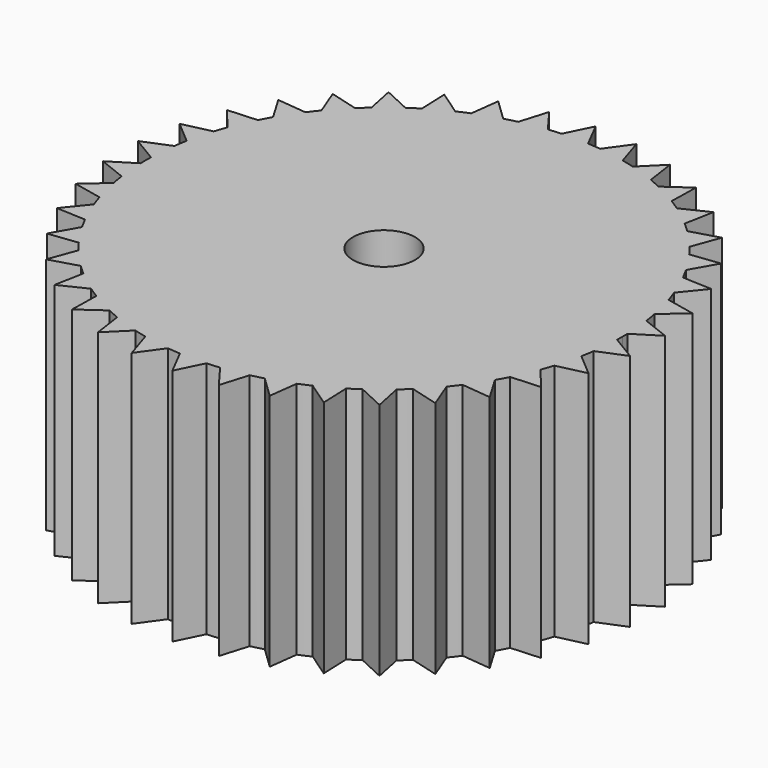
from build123d import *

# Parameters (mm, degrees)
F0_R     = 3.302
F1_DEPTH = 25.4


with BuildPart() as f1:
    # F0 (on Top) → F1 (new body)
    with BuildSketch(Plane.XY):
        with BuildLine():
            Line((-25.79245, -11.313618), (-22.671766, -11.452119))
            ThreePointArc((-22.671766, -11.452119), (-22.974694, -10.831594), (-23.260642, -10.203064))
            Line((-23.260642, -10.203064), (-25.79245, -11.313618))
        make_face()
        with BuildLine():
            ThreePointArc((-23.260642, 10.203064), (-22.961328, 10.8599), (-22.643469, 11.507966))
            Line((-22.643469, 11.507966), (-25.79245, 11.313618))
            Line((-25.79245, 11.313618), (-23.260642, 10.203064))
        make_face()
        with BuildLine():
            Line((-27.302835, -6.914017), (-24.247509, -7.564277))
            ThreePointArc((-24.247509, -7.564277), (-24.444171, -6.902355), (-24.622767, -6.235331))
            Line((-24.622767, -6.235331), (-27.302835, -6.914017))
        make_face()
        with BuildLine():
            ThreePointArc((-13.285224, 21.648622), (-12.691834, 22.001758), (-12.089064, 22.338633))
            Line((-12.089064, 22.338633), (-13.404899, 24.770085))
            Line((-13.404899, 24.770085), (-13.285224, 21.648622))
        make_face()
        with BuildLine():
            Line((27.302835, -6.914017), (24.925246, -4.887956))
            ThreePointArc((24.925246, -4.887956), (24.783165, -5.563699), (24.622767, -6.235331))
            Line((24.622767, -6.235331), (27.302835, -6.914017))
        make_face()
        with BuildLine():
            Line((9.145052, -26.638627), (8.247367, -24.023758))
            ThreePointArc((8.247367, -24.023758), (7.561396, -24.248408), (6.869319, -24.453475))
            Line((6.869319, -24.453475), (9.145052, -26.638627))
        make_face()
        with BuildLine():
            Line((-23.578514, -15.404612), (-21.264029, -13.892483))
            ThreePointArc((-21.264029, -13.892483), (-21.6502, -13.282651), (-22.018888, -12.662093))
            Line((-22.018888, -12.662093), (-23.578514, -15.404612))
        make_face()
        with BuildLine():
            ThreePointArc((-18.687387, 17.202952), (-18.191016, 17.727012), (-17.679953, 18.236756))
            Line((-17.679953, 18.236756), (-20.721418, 19.075409))
            Line((-20.721418, 19.075409), (-18.687387, 17.202952))
        make_face()
        with BuildLine():
            Line((4.635752, -27.780537), (4.180703, -25.053577))
            ThreePointArc((4.180703, -25.053577), (3.467111, -25.162256), (2.75072, -25.250615))
            Line((2.75072, -25.250615), (4.635752, -27.780537))
        make_face()
        with BuildLine():
            Line((-25.79245, -11.313618), (-23.260642, -10.203064))
            ThreePointArc((-23.260642, -10.203064), (-23.541172, -9.537987), (-23.802691, -8.865208))
            Line((-23.802691, -8.865208), (-25.79245, -11.313618))
        make_face()
        with BuildLine():
            ThreePointArc((-15.601003, 20.044169), (-15.025144, 20.479381), (-14.43715, 20.898055))
            Line((-14.43715, 20.898055), (-17.299096, 22.225879))
            Line((-17.299096, 22.225879), (-15.601003, 20.044169))
        make_face()
        with BuildLine():
            Line((9.145052, -26.638627), (9.540785, -23.540039))
            ThreePointArc((9.540785, -23.540039), (8.897364, -23.79069), (8.247367, -24.023758))
            Line((8.247367, -24.023758), (9.145052, -26.638627))
        make_face()
        with BuildLine():
            Line((-23.578514, -15.404612), (-20.477596, -15.027577))
            ThreePointArc((-20.477596, -15.027577), (-20.878527, -14.465376), (-21.264029, -13.892483))
            Line((-21.264029, -13.892483), (-23.578514, -15.404612))
        make_face()
        with BuildLine():
            ThreePointArc((-19.59469, 16.161935), (-19.148114, 16.68861), (-18.687387, 17.202952))
            Line((-18.687387, 17.202952), (-20.721418, 19.075409))
            Line((-20.721418, 19.075409), (-19.59469, 16.161935))
        make_face()
        with BuildLine():
            Line((4.635752, -27.780537), (5.536098, -24.789345))
            ThreePointArc((5.536098, -24.789345), (4.860196, -24.930674), (4.180703, -25.053577))
            Line((4.180703, -25.053577), (4.635752, -27.780537))
        make_face()
        with BuildLine():
            ThreePointArc((-16.667277, 19.166687), (-16.140104, 19.612675), (-15.601003, 20.044169))
            Line((-15.601003, 20.044169), (-17.299096, 22.225879))
            Line((-17.299096, 22.225879), (-16.667277, 19.166687))
        make_face()
        with BuildLine():
            Line((28.06847, -2.32582), (25.389829, -0.71873))
            ThreePointArc((25.389829, -0.71873), (25.360909, -1.408643), (25.313246, -2.097515))
            Line((25.313246, -2.097515), (28.06847, -2.32582))
        make_face()
        with BuildLine():
            ThreePointArc((6.929571, 24.43647), (7.591274, 24.239071), (8.247367, 24.023758))
            Line((8.247367, 24.023758), (9.145052, 26.638627))
            Line((9.145052, 26.638627), (6.929571, 24.43647))
        make_face()
        with BuildLine():
            Line((13.404899, -24.770085), (13.285224, -21.648622))
            ThreePointArc((13.285224, -21.648622), (12.691834, -22.001758), (12.089064, -22.338633))
            Line((12.089064, -22.338633), (13.404899, -24.770085))
        make_face()
        with BuildLine():
            Line((-20.721418, -19.075409), (-17.72485, -18.193122))
            ThreePointArc((-17.72485, -18.193122), (-18.212849, -17.704579), (-18.687387, -17.202952))
            Line((-18.687387, -17.202952), (-20.721418, -19.075409))
        make_face()
        with BuildLine():
            ThreePointArc((-21.987611, 12.716327), (-21.633814, 13.309323), (-21.264029, 13.892483))
            Line((-21.264029, 13.892483), (-23.578514, 15.404612))
            Line((-23.578514, 15.404612), (-21.987611, 12.716327))
        make_face()
        with BuildLine():
            ThreePointArc((4.180703, 25.053577), (4.890917, 24.924665), (5.597182, 24.775624))
            Line((5.597182, 24.775624), (4.635752, 27.780537))
            Line((4.635752, 27.780537), (4.180703, 25.053577))
        make_face()
        with BuildLine():
            Line((-17.299096, -22.225879), (-15.601003, -20.044169))
            ThreePointArc((-15.601003, -20.044169), (-16.164263, -19.592769), (-16.714469, -19.125547))
            Line((-16.714469, -19.125547), (-17.299096, -22.225879))
        make_face()
        with BuildLine():
            ThreePointArc((2.81295, 25.243758), (3.498119, 25.157964), (4.180703, 25.053577))
            Line((4.180703, 25.053577), (4.635752, 27.780537))
            Line((4.635752, 27.780537), (2.81295, 25.243758))
        make_face()
        with BuildLine():
            Line((17.299096, -22.225879), (16.667277, -19.166687))
            ThreePointArc((16.667277, -19.166687), (16.140104, -19.612675), (15.601003, -20.044169))
            Line((15.601003, -20.044169), (17.299096, -22.225879))
        make_face()
        with BuildLine():
            Line((-17.299096, -22.225879), (-14.488617, -20.862406))
            ThreePointArc((-14.488617, -20.862406), (-15.050371, -20.460848), (-15.601003, -20.044169))
            Line((-15.601003, -20.044169), (-17.299096, -22.225879))
        make_face()
        with BuildLine():
            ThreePointArc((-23.780767, 8.923851), (-23.5294, 9.566993), (-23.260642, 10.203064))
            Line((-23.260642, 10.203064), (-25.79245, 11.313618))
            Line((-25.79245, 11.313618), (-23.780767, 8.923851))
        make_face()
        with BuildLine():
            Line((20.721418, -19.075409), (18.687387, -17.202952))
            ThreePointArc((18.687387, -17.202952), (18.191016, -17.727012), (17.679953, -18.236756))
            Line((17.679953, -18.236756), (20.721418, -19.075409))
        make_face()
        with BuildLine():
            Line((-13.404899, -24.770085), (-12.089064, -22.338633))
            ThreePointArc((-12.089064, -22.338633), (-12.71894, -21.9861), (-13.338544, -21.61581))
            Line((-13.338544, -21.61581), (-13.404899, -24.770085))
        make_face()
        with BuildLine():
            ThreePointArc((-24.622767, 6.235331), (-24.435646, 6.932475), (-24.228791, 7.62402))
            Line((-24.228791, 7.62402), (-27.302835, 6.914017))
            Line((-27.302835, 6.914017), (-24.622767, 6.235331))
        make_face()
        with BuildLine():
            ThreePointArc((-1.380401, 25.362462), (-0.690456, 25.390614), (0, 25.4))
            Line((0, 25.4), (0, 28.164666))
            Line((0, 28.164666), (-1.380401, 25.362462))
        make_face()
        with BuildLine():
            Line((20.721418, -19.075409), (19.59469, -16.161935))
            ThreePointArc((19.59469, -16.161935), (19.148114, -16.68861), (18.687387, -17.202952))
            Line((18.687387, -17.202952), (20.721418, -19.075409))
        make_face()
        with BuildLine():
            Line((-13.404899, -24.770085), (-10.857172, -22.962618))
            ThreePointArc((-10.857172, -22.962618), (-11.477359, -22.658999), (-12.089064, -22.338633))
            Line((-12.089064, -22.338633), (-13.404899, -24.770085))
        make_face()
        with BuildLine():
            ThreePointArc((-24.925246, 4.887956), (-24.783165, 5.563699), (-24.622767, 6.235331))
            Line((-24.622767, 6.235331), (-27.302835, 6.914017))
            Line((-27.302835, 6.914017), (-24.925246, 4.887956))
        make_face()
        with BuildLine():
            ThreePointArc((-4.180703, 25.053577), (-3.467111, 25.162256), (-2.75072, 25.250615))
            Line((-2.75072, 25.250615), (-4.635752, 27.780537))
            Line((-4.635752, 27.780537), (-4.180703, 25.053577))
        make_face()
        with BuildLine():
            Line((23.578514, -15.404612), (21.264029, -13.892483))
            ThreePointArc((21.264029, -13.892483), (20.860684, -14.491096), (20.440493, -15.078005))
            Line((20.440493, -15.078005), (23.578514, -15.404612))
        make_face()
        with BuildLine():
            Line((-9.145052, -26.638627), (-8.247367, -24.023758))
            ThreePointArc((-8.247367, -24.023758), (-8.926677, -23.779707), (-9.598778, -23.516451))
            Line((-9.598778, -23.516451), (-9.145052, -26.638627))
        make_face()
        with BuildLine():
            Line((23.578514, -15.404612), (21.987611, -12.716327))
            ThreePointArc((21.987611, -12.716327), (21.633814, -13.309323), (21.264029, -13.892483))
            Line((21.264029, -13.892483), (23.578514, -15.404612))
        make_face()
        with BuildLine():
            Line((-9.145052, -26.638627), (-6.929571, -24.43647))
            ThreePointArc((-6.929571, -24.43647), (-7.591274, -24.239071), (-8.247367, -24.023758))
            Line((-8.247367, -24.023758), (-9.145052, -26.638627))
        make_face()
        with BuildLine():
            ThreePointArc((-25.389829, 0.71873), (-25.360909, 1.408643), (-25.313246, 2.097515))
            Line((-25.313246, 2.097515), (-28.06847, 2.32582))
            Line((-28.06847, 2.32582), (-25.389829, 0.71873))
        make_face()
        with BuildLine():
            ThreePointArc((-5.536098, 24.789345), (-4.860196, 24.930674), (-4.180703, 25.053577))
            Line((-4.180703, 25.053577), (-4.635752, 27.780537))
            Line((-4.635752, 27.780537), (-5.536098, 24.789345))
        make_face()
        with BuildLine():
            ThreePointArc((8.247367, 24.023758), (8.926677, 23.779707), (9.598778, 23.516451))
            Line((9.598778, 23.516451), (9.145052, 26.638627))
            Line((9.145052, 26.638627), (8.247367, 24.023758))
        make_face()
        with BuildLine():
            ThreePointArc((12.089064, 22.338633), (12.71894, 21.9861), (13.338544, 21.61581))
            Line((13.338544, 21.61581), (13.404899, 24.770085))
            Line((13.404899, 24.770085), (12.089064, 22.338633))
        make_face()
        with BuildLine():
            ThreePointArc((10.857172, 22.962618), (11.477359, 22.658999), (12.089064, 22.338633))
            Line((12.089064, 22.338633), (13.404899, 24.770085))
            Line((13.404899, 24.770085), (10.857172, 22.962618))
        make_face()
        with BuildLine():
            ThreePointArc((25.313246, 2.097515), (25.362626, 1.377387), (25.391524, 0.656146))
            Line((25.391524, 0.656146), (28.06847, 2.32582))
            Line((28.06847, 2.32582), (25.313246, 2.097515))
        make_face()
        with BuildLine():
            ThreePointArc((25.161844, 3.470101), (25.246875, 2.784838), (25.313246, 2.097515))
            Line((25.313246, 2.097515), (28.06847, 2.32582))
            Line((28.06847, 2.32582), (25.161844, 3.470101))
        make_face()
        with BuildLine():
            ThreePointArc((24.247509, 7.564277), (24.444171, 6.902355), (24.622767, 6.235331))
            Line((24.622767, 6.235331), (27.302835, 6.914017))
            Line((27.302835, 6.914017), (24.247509, 7.564277))
        make_face()
        with BuildLine():
            ThreePointArc((23.260642, 10.203064), (23.541172, 9.537987), (23.802691, 8.865208))
            Line((23.802691, 8.865208), (25.79245, 11.313618))
            Line((25.79245, 11.313618), (23.260642, 10.203064))
        make_face()
        with BuildLine():
            ThreePointArc((22.671766, 11.452119), (22.974694, 10.831594), (23.260642, 10.203064))
            Line((23.260642, 10.203064), (25.79245, 11.313618))
            Line((25.79245, 11.313618), (22.671766, 11.452119))
        make_face()
        with BuildLine():
            ThreePointArc((21.264029, 13.892483), (21.6502, 13.282651), (22.018888, 12.662093))
            Line((22.018888, 12.662093), (23.578514, 15.404612))
            Line((23.578514, 15.404612), (21.264029, 13.892483))
        make_face()
        with BuildLine():
            ThreePointArc((20.477596, 15.027577), (20.878527, 14.465376), (21.264029, 13.892483))
            Line((21.264029, 13.892483), (23.578514, 15.404612))
            Line((23.578514, 15.404612), (20.477596, 15.027577))
        make_face()
        with BuildLine():
            ThreePointArc((18.687387, 17.202952), (19.168667, 16.664999), (19.634467, 16.113588))
            Line((19.634467, 16.113588), (20.721418, 19.075409))
            Line((20.721418, 19.075409), (18.687387, 17.202952))
        make_face()
        with BuildLine():
            ThreePointArc((17.72485, 18.193122), (18.212849, 17.704579), (18.687387, 17.202952))
            Line((18.687387, 17.202952), (20.721418, 19.075409))
            Line((20.721418, 19.075409), (17.72485, 18.193122))
        make_face()
        with BuildLine():
            ThreePointArc((15.601003, 20.044169), (16.164263, 19.592769), (16.714469, 19.125547))
            Line((16.714469, 19.125547), (17.299096, 22.225879))
            Line((17.299096, 22.225879), (15.601003, 20.044169))
        make_face()
        with BuildLine():
            ThreePointArc((14.488617, 20.862406), (15.050371, 20.460848), (15.601003, 20.044169))
            Line((15.601003, 20.044169), (17.299096, 22.225879))
            Line((17.299096, 22.225879), (14.488617, 20.862406))
        make_face()
        with BuildLine():
            Line((-4.635752, -27.780537), (-4.180703, -25.053577))
            ThreePointArc((-4.180703, -25.053577), (-4.890917, -24.924665), (-5.597182, -24.775624))
            Line((-5.597182, -24.775624), (-4.635752, -27.780537))
        make_face()
        with BuildLine():
            Line((-28.06847, -2.32582), (-25.313246, -2.097515))
            ThreePointArc((-25.313246, -2.097515), (-25.362626, -1.377387), (-25.391524, -0.656146))
            Line((-25.391524, -0.656146), (-28.06847, -2.32582))
        make_face()
        with BuildLine():
            ThreePointArc((-8.247367, 24.023758), (-7.561396, 24.248408), (-6.869319, 24.453475))
            Line((-6.869319, 24.453475), (-9.145052, 26.638627))
            Line((-9.145052, 26.638627), (-8.247367, 24.023758))
        make_face()
        with BuildLine():
            Line((25.79245, -11.313618), (23.260642, -10.203064))
            ThreePointArc((23.260642, -10.203064), (22.961328, -10.8599), (22.643469, -11.507966))
            Line((22.643469, -11.507966), (25.79245, -11.313618))
        make_face()
        with BuildLine():
            Line((-4.635752, -27.780537), (-2.81295, -25.243758))
            ThreePointArc((-2.81295, -25.243758), (-3.498119, -25.157964), (-4.180703, -25.053577))
            Line((-4.180703, -25.053577), (-4.635752, -27.780537))
        make_face()
        with BuildLine():
            Line((-28.06847, -2.32582), (-25.161844, -3.470101))
            ThreePointArc((-25.161844, -3.470101), (-25.246875, -2.784838), (-25.313246, -2.097515))
            Line((-25.313246, -2.097515), (-28.06847, -2.32582))
        make_face()
        with BuildLine():
            ThreePointArc((-9.540785, 23.540039), (-8.897364, 23.79069), (-8.247367, 24.023758))
            Line((-8.247367, 24.023758), (-9.145052, 26.638627))
            Line((-9.145052, 26.638627), (-9.540785, 23.540039))
        make_face()
        with BuildLine():
            Line((25.79245, -11.313618), (23.780767, -8.923851))
            ThreePointArc((23.780767, -8.923851), (23.5294, -9.566993), (23.260642, -10.203064))
            Line((23.260642, -10.203064), (25.79245, -11.313618))
        make_face()
        with BuildLine():
            ThreePointArc((-21.264029, 13.892483), (-20.860684, 14.491096), (-20.440493, 15.078005))
            Line((-20.440493, 15.078005), (-23.578514, 15.404612))
            Line((-23.578514, 15.404612), (-21.264029, 13.892483))
        make_face()
        with BuildLine():
            Line((-27.302835, -6.914017), (-24.622767, -6.235331))
            ThreePointArc((-24.622767, -6.235331), (-24.790003, -5.533152), (-24.937218, -4.826504))
            Line((-24.937218, -4.826504), (-27.302835, -6.914017))
        make_face()
        with BuildLine():
            ThreePointArc((-12.089064, 22.338633), (-11.449425, 22.673127), (-10.80054, 22.989309))
            Line((-10.80054, 22.989309), (-13.404899, 24.770085))
            Line((-13.404899, 24.770085), (-12.089064, 22.338633))
        make_face()
        with BuildLine():
            Line((13.404899, -24.770085), (12.089064, -22.338633))
            ThreePointArc((12.089064, -22.338633), (11.449425, -22.673127), (10.80054, -22.989309))
            Line((10.80054, -22.989309), (13.404899, -24.770085))
        make_face()
        with BuildLine():
            Line((-20.721418, -19.075409), (-18.687387, -17.202952))
            ThreePointArc((-18.687387, -17.202952), (-19.168667, -16.664999), (-19.634467, -16.113588))
            Line((-19.634467, -16.113588), (-20.721418, -19.075409))
        make_face()
        with BuildLine():
            Line((27.302835, -6.914017), (24.622767, -6.235331))
            ThreePointArc((24.622767, -6.235331), (24.435646, -6.932475), (24.228791, -7.62402))
            Line((24.228791, -7.62402), (27.302835, -6.914017))
        make_face()
        with BuildLine():
            Line((0, -28.164666), (1.380401, -25.362462))
            ThreePointArc((1.380401, -25.362462), (0.690456, -25.390614), (0, -25.4))
            Line((0, -25.4), (0, -28.164666))
        make_face()
        with BuildLine():
            Line((28.06847, -2.32582), (25.313246, -2.097515))
            ThreePointArc((25.313246, -2.097515), (25.243423, -2.81595), (25.153214, -3.53211))
            Line((25.153214, -3.53211), (28.06847, -2.32582))
        make_face()
        with BuildLine():
            Line((17.299096, -22.225879), (15.601003, -20.044169))
            ThreePointArc((15.601003, -20.044169), (15.025144, -20.479381), (14.43715, -20.898055))
            Line((14.43715, -20.898055), (17.299096, -22.225879))
        make_face()
        with BuildLine():
            ThreePointArc((0, 25.4), (0.721747, 25.389744), (1.442911, 25.358983))
            Line((1.442911, 25.358983), (0, 28.164666))
            Line((0, 28.164666), (0, 25.4))
        make_face()
        with BuildLine():
            ThreePointArc((-25.313246, 2.097515), (-25.243423, 2.81595), (-25.153214, 3.53211))
            Line((-25.153214, 3.53211), (-28.06847, 2.32582))
            Line((-28.06847, 2.32582), (-25.313246, 2.097515))
        make_face()
        with BuildLine():
            ThreePointArc((24.622767, 6.235331), (24.790003, 5.533152), (24.937218, 4.826504))
            Line((24.937218, 4.826504), (27.302835, 6.914017))
            Line((27.302835, 6.914017), (24.622767, 6.235331))
        make_face()
        with BuildLine():
            Line((0, -28.164666), (0, -25.4))
            ThreePointArc((0, -25.4), (-0.721747, -25.389744), (-1.442911, -25.358983))
            Line((-1.442911, -25.358983), (0, -28.164666))
        make_face()
        with BuildLine():
            ThreePointArc((25.389829, -0.71873), (25.397457, -0.359401), (25.4, 0))
            ThreePointArc((25.4, 0), (25.397881, 0.3281), (25.391524, 0.656146))
            ThreePointArc((25.391524, 0.656146), (25.362626, 1.377387), (25.313246, 2.097515))
            ThreePointArc((25.313246, 2.097515), (25.246875, 2.784838), (25.161844, 3.470101))
            ThreePointArc((25.161844, 3.470101), (25.05871, 4.149823), (24.937218, 4.826504))
            ThreePointArc((24.937218, 4.826504), (24.790003, 5.533152), (24.622767, 6.235331))
            ThreePointArc((24.622767, 6.235331), (24.444171, 6.902355), (24.247509, 7.564277))
            ThreePointArc((24.247509, 7.564277), (24.033904, 8.217753), (23.802691, 8.865208))
            ThreePointArc((23.802691, 8.865208), (23.541172, 9.537987), (23.260642, 10.203064))
            ThreePointArc((23.260642, 10.203064), (22.974694, 10.831594), (22.671766, 11.452119))
            ThreePointArc((22.671766, 11.452119), (22.353515, 12.061524), (22.018888, 12.662093))
            ThreePointArc((22.018888, 12.662093), (21.6502, 13.282651), (21.264029, 13.892483))
            ThreePointArc((21.264029, 13.892483), (20.878527, 14.465376), (20.477596, 15.027577))
            ThreePointArc((20.477596, 15.027577), (20.063381, 15.576288), (19.634467, 16.113588))
            ThreePointArc((19.634467, 16.113588), (19.168667, 16.664999), (18.687387, 17.202952))
            ThreePointArc((18.687387, 17.202952), (18.212849, 17.704579), (17.72485, 18.193122))
            ThreePointArc((17.72485, 18.193122), (17.225969, 18.666172), (16.714469, 19.125547))
            ThreePointArc((16.714469, 19.125547), (16.164263, 19.592769), (15.601003, 20.044169))
            ThreePointArc((15.601003, 20.044169), (15.050371, 20.460848), (14.488617, 20.862406))
            ThreePointArc((14.488617, 20.862406), (13.918679, 21.246891), (13.338544, 21.61581))
            ThreePointArc((13.338544, 21.61581), (12.71894, 21.9861), (12.089064, 22.338633))
            ThreePointArc((12.089064, 22.338633), (11.477359, 22.658999), (10.857172, 22.962618))
            ThreePointArc((10.857172, 22.962618), (10.231723, 23.24805), (9.598778, 23.516451))
            ThreePointArc((9.598778, 23.516451), (8.926677, 23.779707), (8.247367, 24.023758))
            ThreePointArc((8.247367, 24.023758), (7.591274, 24.239071), (6.929571, 24.43647))
            ThreePointArc((6.929571, 24.43647), (6.265672, 24.615064), (5.597182, 24.775624))
            ThreePointArc((5.597182, 24.775624), (4.890917, 24.924665), (4.180703, 25.053577))
            ThreePointArc((4.180703, 25.053577), (3.498119, 25.157964), (2.81295, 25.243758))
            ThreePointArc((2.81295, 25.243758), (2.12871, 25.310642), (1.442911, 25.358983))
            ThreePointArc((1.442911, 25.358983), (0.721747, 25.389744), (0, 25.4))
            ThreePointArc((0, 25.4), (-0.690456, 25.390614), (-1.380401, 25.362462))
            ThreePointArc((-1.380401, 25.362462), (-2.066317, 25.315812), (-2.75072, 25.250615))
            ThreePointArc((-2.75072, 25.250615), (-3.467111, 25.162256), (-4.180703, 25.053577))
            ThreePointArc((-4.180703, 25.053577), (-4.860196, 24.930674), (-5.536098, 24.789345))
            ThreePointArc((-5.536098, 24.789345), (-6.204981, 24.630433), (-6.869319, 24.453475))
            ThreePointArc((-6.869319, 24.453475), (-7.561396, 24.248408), (-8.247367, 24.023758))
            ThreePointArc((-8.247367, 24.023758), (-8.897364, 23.79069), (-9.540785, 23.540039))
            ThreePointArc((-9.540785, 23.540039), (-10.174389, 23.273199), (-10.80054, 22.989309))
            ThreePointArc((-10.80054, 22.989309), (-11.449425, 22.673127), (-12.089064, 22.338633))
            ThreePointArc((-12.089064, 22.338633), (-12.691834, 22.001758), (-13.285224, 21.648622))
            ThreePointArc((-13.285224, 21.648622), (-13.866267, 21.281134), (-14.43715, 20.898055))
            ThreePointArc((-14.43715, 20.898055), (-15.025144, 20.479381), (-15.601003, 20.044169))
            ThreePointArc((-15.601003, 20.044169), (-16.140104, 19.612675), (-16.667277, 19.166687))
            ThreePointArc((-16.667277, 19.166687), (-17.179908, 18.708574), (-17.679953, 18.236756))
            ThreePointArc((-17.679953, 18.236756), (-18.191016, 17.727012), (-18.687387, 17.202952))
            ThreePointArc((-18.687387, 17.202952), (-19.148114, 16.68861), (-19.59469, 16.161935))
            ThreePointArc((-19.59469, 16.161935), (-20.024927, 15.625694), (-20.440493, 15.078005))
            ThreePointArc((-20.440493, 15.078005), (-20.860684, 14.491096), (-21.264029, 13.892483))
            ThreePointArc((-21.264029, 13.892483), (-21.633814, 13.309323), (-21.987611, 12.716327))
            ThreePointArc((-21.987611, 12.716327), (-22.323718, 12.116585), (-22.643469, 11.507966))
            ThreePointArc((-22.643469, 11.507966), (-22.961328, 10.8599), (-23.260642, 10.203064))
            ThreePointArc((-23.260642, 10.203064), (-23.5294, 9.566993), (-23.780767, 8.923851))
            ThreePointArc((-23.780767, 8.923851), (-24.013576, 8.276967), (-24.228791, 7.62402))
            ThreePointArc((-24.228791, 7.62402), (-24.435646, 6.932475), (-24.622767, 6.235331))
            ThreePointArc((-24.622767, 6.235331), (-24.783165, 5.563699), (-24.925246, 4.887956))
            ThreePointArc((-24.925246, 4.887956), (-25.048406, 4.211576), (-25.153214, 3.53211))
            ThreePointArc((-25.153214, 3.53211), (-25.243423, 2.81595), (-25.313246, 2.097515))
            ThreePointArc((-25.313246, 2.097515), (-25.360909, 1.408643), (-25.389829, 0.71873))
            ThreePointArc((-25.389829, 0.71873), (-25.399981, 0.031303), (-25.391524, -0.656146))
            ThreePointArc((-25.391524, -0.656146), (-25.362626, -1.377387), (-25.313246, -2.097515))
            ThreePointArc((-25.313246, -2.097515), (-25.246875, -2.784838), (-25.161844, -3.470101))
            ThreePointArc((-25.161844, -3.470101), (-25.05871, -4.149823), (-24.937218, -4.826504))
            ThreePointArc((-24.937218, -4.826504), (-24.790003, -5.533152), (-24.622767, -6.235331))
            ThreePointArc((-24.622767, -6.235331), (-24.444171, -6.902355), (-24.247509, -7.564277))
            ThreePointArc((-24.247509, -7.564277), (-24.033904, -8.217753), (-23.802691, -8.865208))
            ThreePointArc((-23.802691, -8.865208), (-23.541172, -9.537987), (-23.260642, -10.203064))
            ThreePointArc((-23.260642, -10.203064), (-22.974694, -10.831594), (-22.671766, -11.452119))
            ThreePointArc((-22.671766, -11.452119), (-22.353515, -12.061524), (-22.018888, -12.662093))
            ThreePointArc((-22.018888, -12.662093), (-21.6502, -13.282651), (-21.264029, -13.892483))
            ThreePointArc((-21.264029, -13.892483), (-20.878527, -14.465376), (-20.477596, -15.027577))
            ThreePointArc((-20.477596, -15.027577), (-20.063381, -15.576288), (-19.634467, -16.113588))
            ThreePointArc((-19.634467, -16.113588), (-19.168667, -16.664999), (-18.687387, -17.202952))
            ThreePointArc((-18.687387, -17.202952), (-18.212849, -17.704579), (-17.72485, -18.193122))
            ThreePointArc((-17.72485, -18.193122), (-17.225969, -18.666172), (-16.714469, -19.125547))
            ThreePointArc((-16.714469, -19.125547), (-16.164263, -19.592769), (-15.601003, -20.044169))
            ThreePointArc((-15.601003, -20.044169), (-15.050371, -20.460848), (-14.488617, -20.862406))
            ThreePointArc((-14.488617, -20.862406), (-13.918679, -21.246891), (-13.338544, -21.61581))
            ThreePointArc((-13.338544, -21.61581), (-12.71894, -21.9861), (-12.089064, -22.338633))
            ThreePointArc((-12.089064, -22.338633), (-11.477359, -22.658999), (-10.857172, -22.962618))
            ThreePointArc((-10.857172, -22.962618), (-10.231723, -23.24805), (-9.598778, -23.516451))
            ThreePointArc((-9.598778, -23.516451), (-8.926677, -23.779707), (-8.247367, -24.023758))
            ThreePointArc((-8.247367, -24.023758), (-7.591274, -24.239071), (-6.929571, -24.43647))
            ThreePointArc((-6.929571, -24.43647), (-6.265672, -24.615064), (-5.597182, -24.775624))
            ThreePointArc((-5.597182, -24.775624), (-4.890917, -24.924665), (-4.180703, -25.053577))
            ThreePointArc((-4.180703, -25.053577), (-3.498119, -25.157964), (-2.81295, -25.243758))
            ThreePointArc((-2.81295, -25.243758), (-2.12871, -25.310642), (-1.442911, -25.358983))
            ThreePointArc((-1.442911, -25.358983), (-0.721747, -25.389744), (0, -25.4))
            ThreePointArc((0, -25.4), (0.690456, -25.390614), (1.380401, -25.362462))
            ThreePointArc((1.380401, -25.362462), (2.066317, -25.315812), (2.75072, -25.250615))
            ThreePointArc((2.75072, -25.250615), (3.467111, -25.162256), (4.180703, -25.053577))
            ThreePointArc((4.180703, -25.053577), (4.860196, -24.930674), (5.536098, -24.789345))
            ThreePointArc((5.536098, -24.789345), (6.204981, -24.630433), (6.869319, -24.453475))
            ThreePointArc((6.869319, -24.453475), (7.561396, -24.248408), (8.247367, -24.023758))
            ThreePointArc((8.247367, -24.023758), (8.897364, -23.79069), (9.540785, -23.540039))
            ThreePointArc((9.540785, -23.540039), (10.174389, -23.273199), (10.80054, -22.989309))
            ThreePointArc((10.80054, -22.989309), (11.449425, -22.673127), (12.089064, -22.338633))
            ThreePointArc((12.089064, -22.338633), (12.691834, -22.001758), (13.285224, -21.648622))
            ThreePointArc((13.285224, -21.648622), (13.866267, -21.281134), (14.43715, -20.898055))
            ThreePointArc((14.43715, -20.898055), (15.025144, -20.479381), (15.601003, -20.044169))
            ThreePointArc((15.601003, -20.044169), (16.140104, -19.612675), (16.667277, -19.166687))
            ThreePointArc((16.667277, -19.166687), (17.179908, -18.708574), (17.679953, -18.236756))
            ThreePointArc((17.679953, -18.236756), (18.191016, -17.727012), (18.687387, -17.202952))
            ThreePointArc((18.687387, -17.202952), (19.148114, -16.68861), (19.59469, -16.161935))
            ThreePointArc((19.59469, -16.161935), (20.024927, -15.625694), (20.440493, -15.078005))
            ThreePointArc((20.440493, -15.078005), (20.860684, -14.491096), (21.264029, -13.892483))
            ThreePointArc((21.264029, -13.892483), (21.633814, -13.309323), (21.987611, -12.716327))
            ThreePointArc((21.987611, -12.716327), (22.323718, -12.116585), (22.643469, -11.507966))
            ThreePointArc((22.643469, -11.507966), (22.961328, -10.8599), (23.260642, -10.203064))
            ThreePointArc((23.260642, -10.203064), (23.5294, -9.566993), (23.780767, -8.923851))
            ThreePointArc((23.780767, -8.923851), (24.013576, -8.276967), (24.228791, -7.62402))
            ThreePointArc((24.228791, -7.62402), (24.435646, -6.932475), (24.622767, -6.235331))
            ThreePointArc((24.622767, -6.235331), (24.783165, -5.563699), (24.925246, -4.887956))
            ThreePointArc((24.925246, -4.887956), (25.048406, -4.211576), (25.153214, -3.53211))
            ThreePointArc((25.153214, -3.53211), (25.243423, -2.81595), (25.313246, -2.097515))
            ThreePointArc((25.313246, -2.097515), (25.360909, -1.408643), (25.389829, -0.71873))
        make_face()
        Circle(F0_R, mode=Mode.SUBTRACT)
    extrude(amount=F1_DEPTH)


solid = f1.part
